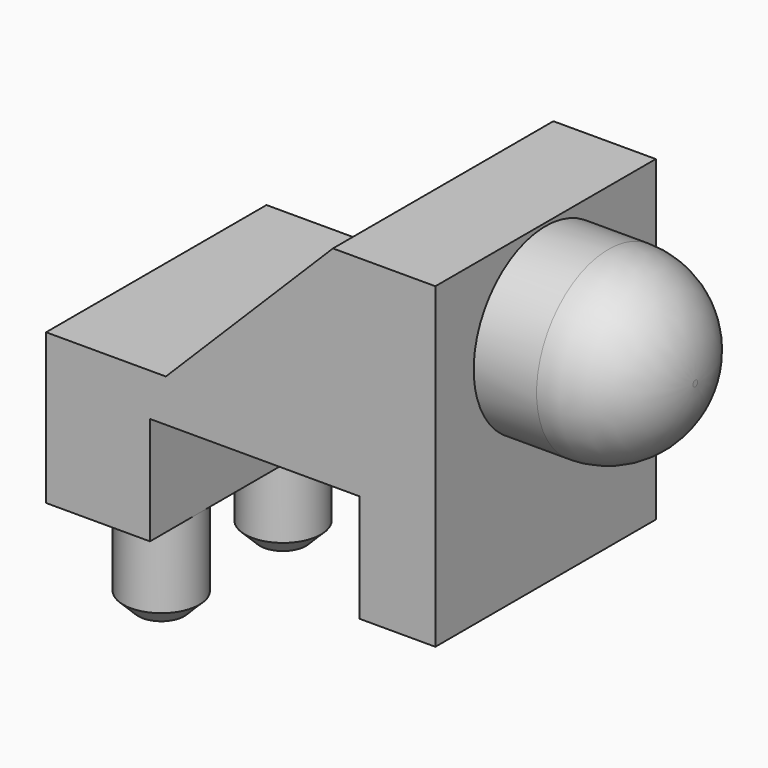
from build123d import *

# Parameters (mm, degrees)
PAD_DEPTH    = 2.3
SKETCH001_R  = 0.635
PAD001_DEPTH = 1.6
SKETCH002_R  = 1.5
PAD002_DEPTH = 2.5
FILLET_R     = 1.45
CHAMFER_SIZE = 0.25


with BuildPart() as part:
    # Sketch → Pad (new body, symmetric)
    with BuildSketch(Plane.XZ):
        Polygon((-6.5, 0), (-4.765, 0), (-4.765, 1.8), (-1.265, 1.8), (-1.265, 0), (0, 0), (0, 5.3), (-1.71, 5.3), (-4.5, 2.51), (-6.5, 2.51), align=None)
    extrude(amount=PAD_DEPTH, both=True)

    # Sketch001 → Pad001 (join)
    with BuildSketch(Plane(origin=(0, 0, 0), x_dir=(-1, 0, 0), z_dir=(0, 0, -1))):
        with Locations((5.4, 1.27)):
            Circle(SKETCH001_R)
        with Locations((5.4, -1.27)):
            Circle(SKETCH001_R)
    extrude(amount=PAD001_DEPTH)

    # Sketch002 → Pad002 (join)
    with BuildSketch(Plane.YZ):
        with Locations((0, 3.75)):
            Circle(SKETCH002_R)
    extrude(amount=PAD002_DEPTH)

    # Fillet
    fillet_edges = [part.edges().sort_by_distance(p)[0] for p in [
        (2.5, -1.5, 3.75),
    ]]
    fillet(fillet_edges, radius=FILLET_R)

    # Chamfer
    chamfer_edges = [part.edges().sort_by_distance(p)[0] for p in [
        (-4.765, 1.27, -1.6),
        (-4.765, -1.27, -1.6),
    ]]
    chamfer(chamfer_edges, length=CHAMFER_SIZE)


solid = part.part
